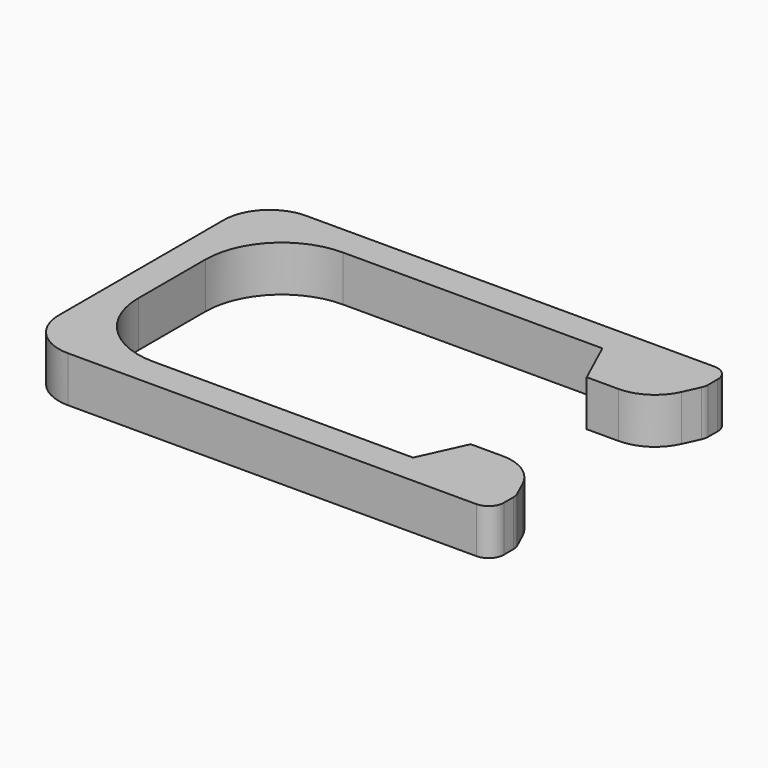
from build123d import *

# Parameters (mm, degrees)
PAD_DEPTH   = 3
FILLET_R    = 3
FILLET001_R = 1
FILLET002_R = 5
FILLET003_R = 3


with BuildPart() as part:
    # Sketch → Pad (new body)
    with BuildSketch(Plane.XY):
        Polygon((0, 0), (30.749545, 0), (30.749545, 2), (29.374773, 5), (25.374773, 5), (24, 2), (2, 2), (2, 17.5), (24, 17.5), (25.374773, 14.5), (29.374773, 14.5), (30.749545, 17.5), (30.749545, 19.5), (0, 19.5), align=None)
    extrude(amount=PAD_DEPTH)

    # Fillet
    fillet_edges = [part.edges().sort_by_distance(p)[0] for p in [
        (29.374773, 5, 1.5),
        (29.374773, 14.5, 1.5),
    ]]
    fillet(fillet_edges, radius=FILLET_R)

    # Fillet001
    fillet001_edges = [part.edges().sort_by_distance(p)[0] for p in [
        (30.749545, 2, 1.5),
        (30.749545, 0, 1.5),
        (30.749545, 19.5, 1.5),
        (30.749545, 17.5, 1.5),
    ]]
    fillet(fillet001_edges, radius=FILLET001_R)

    # Fillet002
    fillet002_edges = [part.edges().sort_by_distance(p)[0] for p in [
        (2, 2, 1.5),
        (2, 17.5, 1.5),
    ]]
    fillet(fillet002_edges, radius=FILLET002_R)

    # Fillet003
    fillet003_edges = [part.edges().sort_by_distance(p)[0] for p in [
        (0, 0, 1.5),
        (0, 19.5, 1.5),
    ]]
    fillet(fillet003_edges, radius=FILLET003_R)


solid = part.part
